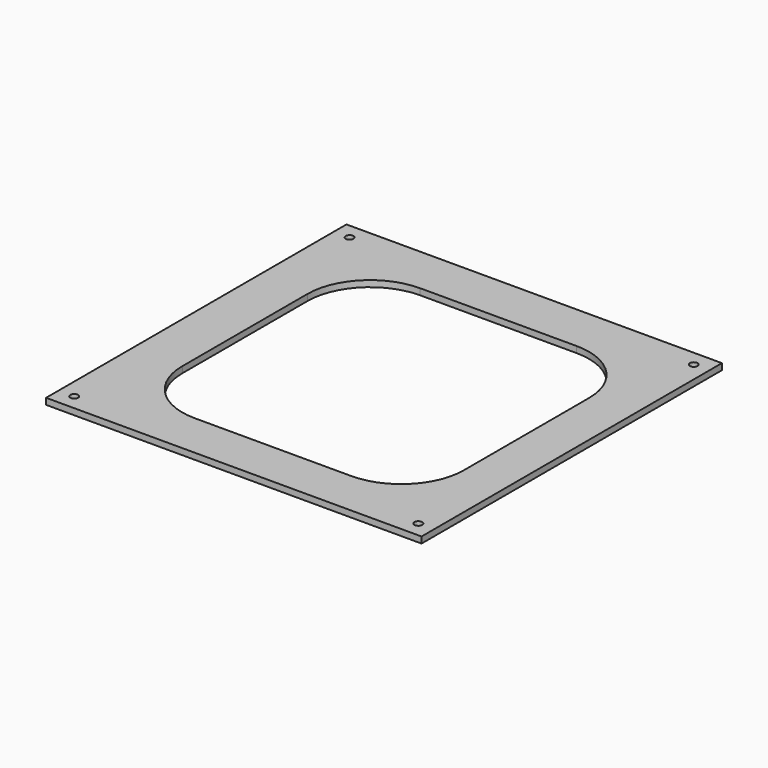
from build123d import *

# Parameters (mm, degrees)
F0_W     = 152.4
F0_H     = 152.4
F0_R     = 1.5875
F1_DEPTH = 2.54


with BuildPart() as f1:
    # F0 (on Top) → F1 (new body)
    with BuildSketch(Plane.XY):
        Rectangle(F0_W, F0_H)
        with Locations((-69.85, -69.85)):
            Circle(F0_R, mode=Mode.SUBTRACT)
        with Locations((69.85, -69.85)):
            Circle(F0_R, mode=Mode.SUBTRACT)
        with BuildLine():
            ThreePointArc((-56.034011, 31.192011), (-48.594523, 49.152523), (-30.634011, 56.592011))
            Line((-30.634011, 56.592011), (32.865989, 56.592011))
            ThreePointArc((32.865989, 56.592011), (50.826501, 49.152523), (58.265989, 31.192011))
            Line((58.265989, 31.192011), (58.265989, -32.307989))
            ThreePointArc((58.265989, -32.307989), (50.826501, -50.268501), (32.865989, -57.707989))
            Line((32.865989, -57.707989), (-30.634011, -57.707989))
            ThreePointArc((-30.634011, -57.707989), (-48.594523, -50.268501), (-56.034011, -32.307989))
            Line((-56.034011, -32.307989), (-56.034011, 31.192011))
        make_face(mode=Mode.SUBTRACT)
        with Locations((-69.85, 69.85)):
            Circle(F0_R, mode=Mode.SUBTRACT)
        with Locations((69.85, 69.85)):
            Circle(F0_R, mode=Mode.SUBTRACT)
    extrude(amount=F1_DEPTH)


solid = f1.part
